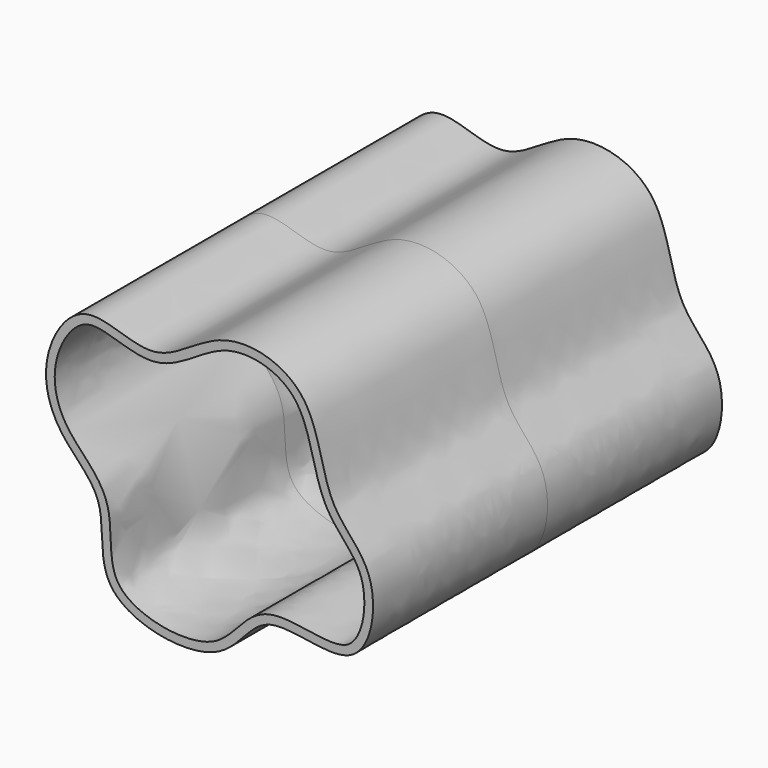
from build123d import *

# Parameters (mm, degrees)
F1_DEPTH = 63.5
F2_T     = -2.54


with BuildPart() as f1:
    # F0 (on Front) → F1 (new body, symmetric)
    with BuildSketch(Plane.XZ):
        with BuildLine():
            add(Edge.make_bspline(
                [(-36.6303287446, 0), (-40.2754280195, 5.0140353305), (-44.0217410159, 17.6736520851), (-30.69439887, 38.9434905101), (-8.6555824199, 23.8548886056), (9.0663617039, 44.096477029), (38.1287122268, 36.0608539793), (38.9913064571, 5.8034838951), (56.7511210274, -4.8474531312), (51.9453539831, -37.5946845295), (20.5445725221, -22.870911042), (12.0237805577, -47.5325218863), (-29.1645026743, -40.0087054031), (-21.9034764988, -12.6627245402), (-33.0384714443, -4.9407980546), (-36.6303287446, 0)],
                knots=[0, 0, 0, 0, 0.0709038079, 0.1424165269, 0.2158865997, 0.2946039632, 0.3744368999, 0.4589453176, 0.5313208173, 0.6087167221, 0.6892726454, 0.7626597919, 0.8537681187, 0.9301318453, 1, 1, 1, 1], degree=3))
        make_face()
    extrude(amount=F1_DEPTH, both=True)

    # F2
    f2_openings = [f1.faces().sort_by_distance(p)[0] for p in [
        (5.848923, -63.5, -0.860805),
    ]]
    offset(amount=F2_T, openings=f2_openings)


solid = f1.part
